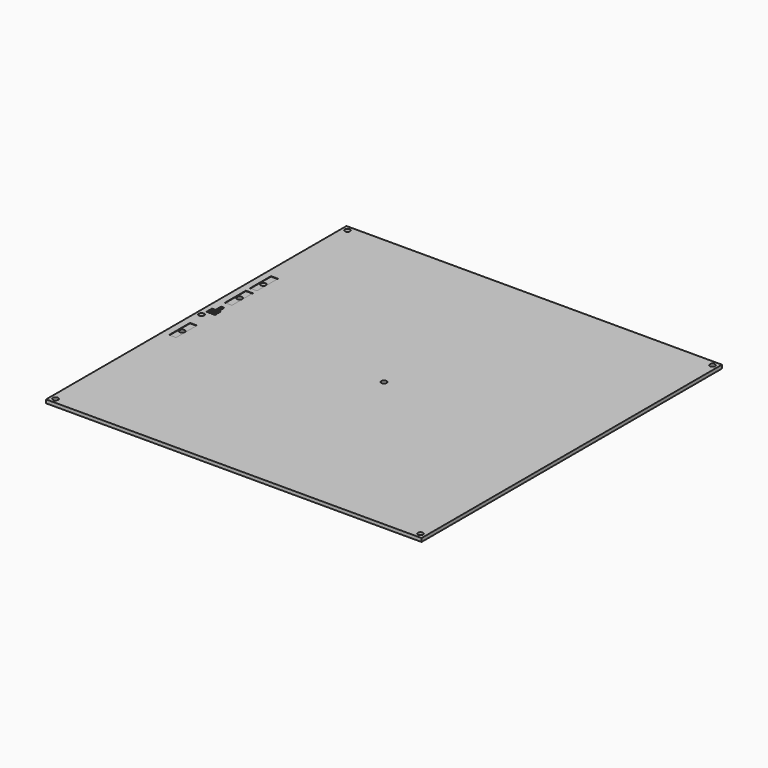
from build123d import *

# Parameters (mm, degrees)
BOX005_W          = 2
BOX005_H          = 4
BOX005_DEPTH      = 0.5
BOX006_W          = 2
BOX006_H          = 4
BOX006_DEPTH      = 0.5
BOX004_W          = 2
BOX004_H          = 4
BOX004_DEPTH      = 0.5
BOX003_W          = 4
BOX003_H          = 15
BOX003_DEPTH      = 0.5
BOX002_W          = 4
BOX002_H          = 15
BOX002_DEPTH      = 0.5
BOX001_W          = 4
BOX001_H          = 15
BOX001_DEPTH      = 0.5
CYLINDER012_R     = 0.75
CYLINDER012_DEPTH = 10
CYLINDER011_R     = 0.75
CYLINDER011_DEPTH = 10
CYLINDER010_R     = 0.75
CYLINDER010_DEPTH = 10
CYLINDER014_R     = 0.75
CYLINDER014_DEPTH = 10
CYLINDER013_R     = 0.75
CYLINDER013_DEPTH = 10
CYLINDER009_R     = 0.75
CYLINDER009_DEPTH = 10
CYLINDER006_R     = 1.5
CYLINDER006_DEPTH = 10
CYLINDER007_R     = 1.5
CYLINDER007_DEPTH = 10
CYLINDER008_R     = 1.5
CYLINDER008_DEPTH = 10
CYLINDER005_R     = 1.5
CYLINDER005_DEPTH = 10
CYLINDER003_R     = 1.5
CYLINDER003_DEPTH = 10
CYLINDER004_R     = 1.5
CYLINDER004_DEPTH = 10
CYLINDER002_R     = 1.5
CYLINDER002_DEPTH = 10
CYLINDER_R        = 1.5
CYLINDER_DEPTH    = 10
CYLINDER001_R     = 1.5
CYLINDER001_DEPTH = 10
BOX_W             = 215
BOX_H             = 215
BOX_DEPTH         = 2


with BuildPart() as cube005:
    # Box005 → Box005 (new body)
    with BuildSketch(Plane(origin=(6, 111, 1.75), x_dir=(1, 0, 0), z_dir=(0, 0, 1))):
        with Locations((1, 2)):
            Rectangle(BOX005_W, BOX005_H)
    extrude(amount=BOX005_DEPTH)


with BuildPart() as cube006:
    # Box006 → Box006 (new body)
    with BuildSketch(Plane(origin=(5, 115, 1.75), x_dir=(1, 0, 0), z_dir=(0, 0, 1))):
        with Locations((1, 2)):
            Rectangle(BOX006_W, BOX006_H)
    extrude(amount=BOX006_DEPTH)


with BuildPart() as cube004:
    # Box004 → Box004 (new body)
    with BuildSketch(Plane(origin=(3, 111, 1.75), x_dir=(1, 0, 0), z_dir=(0, 0, 1))):
        with Locations((1, 2)):
            Rectangle(BOX004_W, BOX004_H)
    extrude(amount=BOX004_DEPTH)


with BuildPart() as cube003:
    # Box003 → Box003 (new body)
    with BuildSketch(Plane(origin=(4, 141, 1.75), x_dir=(1, 0, 0), z_dir=(0, 0, 1))):
        with Locations((2, 7.5)):
            Rectangle(BOX003_W, BOX003_H)
    extrude(amount=BOX003_DEPTH)


with BuildPart() as cube002:
    # Box002 → Box002 (new body)
    with BuildSketch(Plane(origin=(4, 123, 1.75), x_dir=(1, 0, 0), z_dir=(0, 0, 1))):
        with Locations((2, 7.5)):
            Rectangle(BOX002_W, BOX002_H)
    extrude(amount=BOX002_DEPTH)


with BuildPart() as cube001:
    # Box001 → Box001 (new body)
    with BuildSketch(Plane(origin=(4, 83, 1.75), x_dir=(1, 0, 0), z_dir=(0, 0, 1))):
        with Locations((2, 7.5)):
            Rectangle(BOX001_W, BOX001_H)
    extrude(amount=BOX001_DEPTH)


with BuildPart() as cylinder012:
    # Cylinder012 → Cylinder012 (new body)
    with BuildSketch(Plane(origin=(6, 118, 0), x_dir=(1, 0, 0), z_dir=(0, 0, 1))):
        Circle(CYLINDER012_R)
    extrude(amount=CYLINDER012_DEPTH)


with BuildPart() as cylinder011:
    # Cylinder011 → Cylinder011 (new body)
    with BuildSketch(Plane(origin=(6, 116, 0), x_dir=(1, 0, 0), z_dir=(0, 0, 1))):
        Circle(CYLINDER011_R)
    extrude(amount=CYLINDER011_DEPTH)


with BuildPart() as cylinder010:
    # Cylinder010 → Cylinder010 (new body)
    with BuildSketch(Plane(origin=(4, 114, 0), x_dir=(1, 0, 0), z_dir=(0, 0, 1))):
        Circle(CYLINDER010_R)
    extrude(amount=CYLINDER010_DEPTH)


with BuildPart() as cylinder014:
    # Cylinder014 → Cylinder014 (new body)
    with BuildSketch(Plane(origin=(7, 114, 0), x_dir=(1, 0, 0), z_dir=(0, 0, 1))):
        Circle(CYLINDER014_R)
    extrude(amount=CYLINDER014_DEPTH)


with BuildPart() as cylinder013:
    # Cylinder013 → Cylinder013 (new body)
    with BuildSketch(Plane(origin=(7, 112, 0), x_dir=(1, 0, 0), z_dir=(0, 0, 1))):
        Circle(CYLINDER013_R)
    extrude(amount=CYLINDER013_DEPTH)


with BuildPart() as cylinder009:
    # Cylinder009 → Cylinder009 (new body)
    with BuildSketch(Plane(origin=(4, 112, 0), x_dir=(1, 0, 0), z_dir=(0, 0, 1))):
        Circle(CYLINDER009_R)
    extrude(amount=CYLINDER009_DEPTH)


with BuildPart() as cylinder006:
    # Cylinder006 → Cylinder006 (new body)
    with BuildSketch(Plane(origin=(3, 107.5, 0), x_dir=(1, 0, 0), z_dir=(0, 0, 1))):
        Circle(CYLINDER006_R)
    extrude(amount=CYLINDER006_DEPTH)


with BuildPart() as cylinder007:
    # Cylinder007 → Cylinder007 (new body)
    with BuildSketch(Plane(origin=(6, 131, 0), x_dir=(1, 0, 0), z_dir=(0, 0, 1))):
        Circle(CYLINDER007_R)
    extrude(amount=CYLINDER007_DEPTH)


with BuildPart() as cylinder008:
    # Cylinder008 → Cylinder008 (new body)
    with BuildSketch(Plane(origin=(6, 148, 0), x_dir=(1, 0, 0), z_dir=(0, 0, 1))):
        Circle(CYLINDER008_R)
    extrude(amount=CYLINDER008_DEPTH)


with BuildPart() as cylinder005:
    # Cylinder005 → Cylinder005 (new body)
    with BuildSketch(Plane(origin=(6, 90, 0), x_dir=(1, 0, 0), z_dir=(0, 0, 1))):
        Circle(CYLINDER005_R)
    extrude(amount=CYLINDER005_DEPTH)


with BuildPart() as cylinder003:
    # Cylinder003 → Cylinder003 (new body)
    with BuildSketch(Plane(origin=(3, 212, 0), x_dir=(1, 0, 0), z_dir=(0, 0, 1))):
        Circle(CYLINDER003_R)
    extrude(amount=CYLINDER003_DEPTH)


with BuildPart() as cylinder004:
    # Cylinder004 → Cylinder004 (new body)
    with BuildSketch(Plane(origin=(107.5, 107.5, 0), x_dir=(1, 0, 0), z_dir=(0, 0, 1))):
        Circle(CYLINDER004_R)
    extrude(amount=CYLINDER004_DEPTH)


with BuildPart() as cylinder002:
    # Cylinder002 → Cylinder002 (new body)
    with BuildSketch(Plane(origin=(212, 212, 0), x_dir=(1, 0, 0), z_dir=(0, 0, 1))):
        Circle(CYLINDER002_R)
    extrude(amount=CYLINDER002_DEPTH)


with BuildPart() as cylinder:
    # Cylinder → Cylinder (new body)
    with BuildSketch(Plane(origin=(212, 3, 0), x_dir=(1, 0, 0), z_dir=(0, 0, 1))):
        Circle(CYLINDER_R)
    extrude(amount=CYLINDER_DEPTH)


with BuildPart() as cylinder001:
    # Cylinder001 → Cylinder001 (new body)
    with BuildSketch(Plane(origin=(3, 3, 0), x_dir=(1, 0, 0), z_dir=(0, 0, 1))):
        Circle(CYLINDER001_R)
    extrude(amount=CYLINDER001_DEPTH)


with BuildPart() as cut020:
    # Box → Box (new body)
    with BuildSketch(Plane.XY):
        with Locations((107.5, 107.5)):
            Rectangle(BOX_W, BOX_H)
    extrude(amount=BOX_DEPTH)

    # Cut: cut Cylinder001
    add(cylinder001.part, mode=Mode.SUBTRACT)

    # Cut001: cut Cylinder
    add(cylinder.part, mode=Mode.SUBTRACT)

    # Cut002: cut Cylinder002
    add(cylinder002.part, mode=Mode.SUBTRACT)

    # Cut003: cut Cylinder004
    add(cylinder004.part, mode=Mode.SUBTRACT)

    # Cut004: cut Cylinder003
    add(cylinder003.part, mode=Mode.SUBTRACT)

    # Cut005: cut Cylinder005
    add(cylinder005.part, mode=Mode.SUBTRACT)

    # Cut006: cut Cylinder008
    add(cylinder008.part, mode=Mode.SUBTRACT)

    # Cut007: cut Cylinder007
    add(cylinder007.part, mode=Mode.SUBTRACT)

    # Cut008: cut Cylinder006
    add(cylinder006.part, mode=Mode.SUBTRACT)

    # Cut009: cut Cylinder009
    add(cylinder009.part, mode=Mode.SUBTRACT)

    # Cut010: cut Cylinder013
    add(cylinder013.part, mode=Mode.SUBTRACT)

    # Cut011: cut Cylinder014
    add(cylinder014.part, mode=Mode.SUBTRACT)

    # Cut012: cut Cylinder010
    add(cylinder010.part, mode=Mode.SUBTRACT)

    # Cut013: cut Cylinder011
    add(cylinder011.part, mode=Mode.SUBTRACT)

    # Cut014: cut Cylinder012
    add(cylinder012.part, mode=Mode.SUBTRACT)

    # Cut015: cut Cube001
    add(cube001.part, mode=Mode.SUBTRACT)

    # Cut016: cut Cube002
    add(cube002.part, mode=Mode.SUBTRACT)

    # Cut017: cut Cube003
    add(cube003.part, mode=Mode.SUBTRACT)

    # Cut018: cut Cube004
    add(cube004.part, mode=Mode.SUBTRACT)

    # Cut019: cut Cube006
    add(cube006.part, mode=Mode.SUBTRACT)

    # Cut020: cut Cube005
    add(cube005.part, mode=Mode.SUBTRACT)


solid = cut020.part
